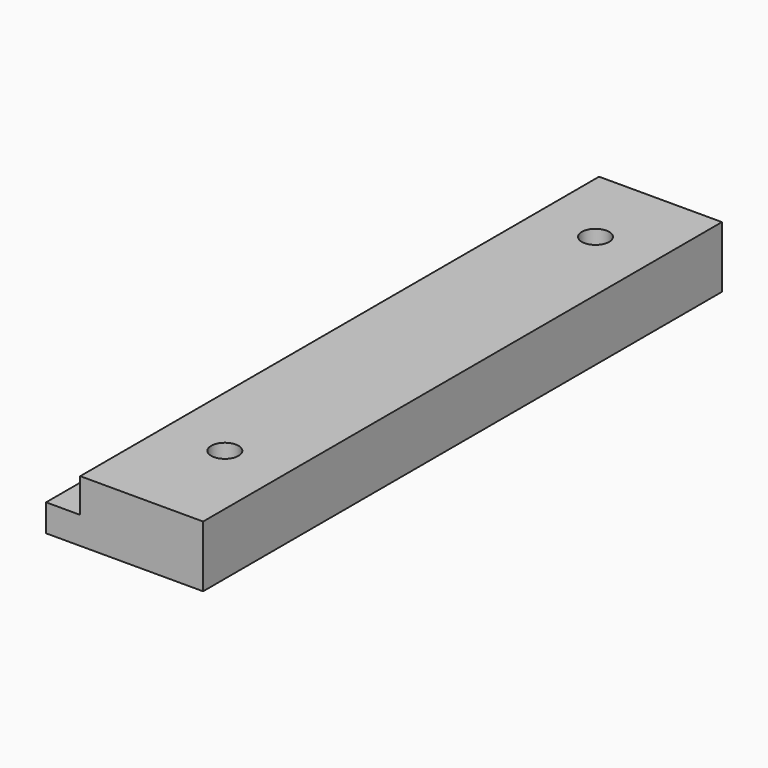
from build123d import *

# Parameters (mm, degrees)
F0_W     = 23
F0_H     = 95
F1_DEPTH = 9
F2_W     = 5
F2_H     = 95
F3_DEPTH = 5
F4_R     = 2
F5_DEPTH = 12.446


with BuildPart() as f1:
    # F0 (on Top) → F1 (new body)
    with BuildSketch(Plane.XY):
        Rectangle(F0_W, F0_H)
    extrude(amount=F1_DEPTH)

    # F2 (on face) → F3 (cut)
    with BuildSketch(Plane.XY.offset(9)):
        with Locations((-9, 0)):
            Rectangle(F2_W, F2_H)
    extrude(amount=-F3_DEPTH, mode=Mode.SUBTRACT)

    # F4 (on face) → F5 (cut)
    with BuildSketch(Plane.XY.offset(9)):
        with Locations((2.5, 35.605948)):
            Circle(F4_R)
        with Locations((2.5, -32.262102)):
            Circle(F4_R)
    extrude(amount=-F5_DEPTH, mode=Mode.SUBTRACT)


solid = f1.part
